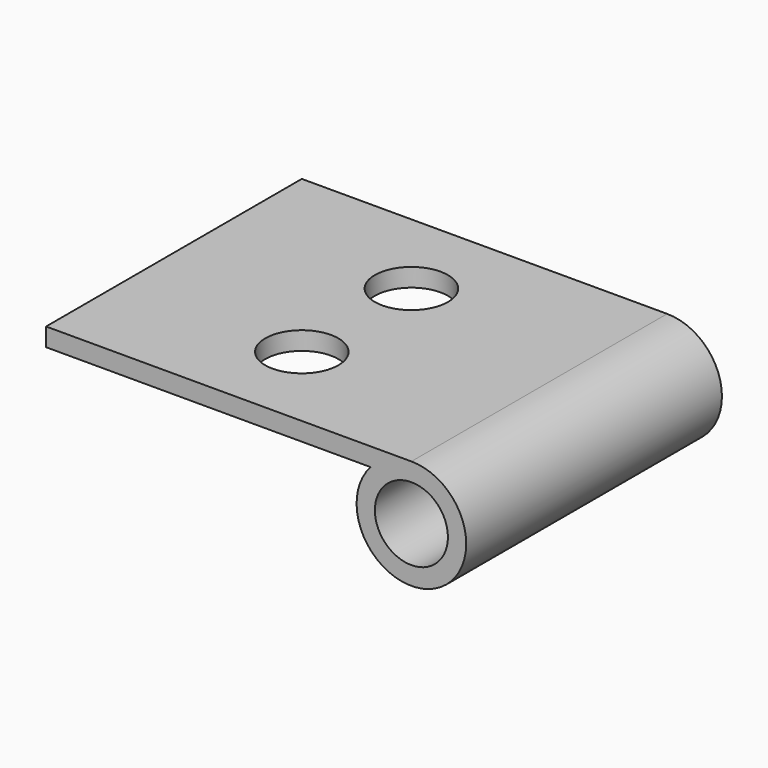
from build123d import *

# Parameters (mm, degrees)
F0_R     = 4
F1_DEPTH = 17.5
F3_D     = 8


with BuildPart() as f1:
    # F0 (on Front) → F1 (new body, symmetric)
    with BuildSketch(Plane.XZ):
        with BuildLine():
            ThreePointArc((-4.472135955, 4), (-2.4494897428, 5.4772255751), (0, 6))
            Line((0, 6), (-40, 6))
            Line((-40, 6), (-40, 4))
            Line((-40, 4), (-4.472135955, 4))
        make_face()
        with BuildLine():
            ThreePointArc((-4.472135955, 4), (-2.1409325386, -5.6050341538), (6, 0))
            ThreePointArc((6, 0), (4.2426406871, 4.2426406871), (0, 6))
            ThreePointArc((0, 6), (-2.4494897428, 5.4772255751), (-4.472135955, 4))
        make_face()
        Circle(F0_R, mode=Mode.SUBTRACT)
    extrude(amount=F1_DEPTH, both=True)

    # F3 (through all)
    with Locations(Plane.XY.offset(6)):
        with Locations((-20, 7.5), (-20, -7.5)):
            Hole(F3_D / 2)


solid = f1.part
